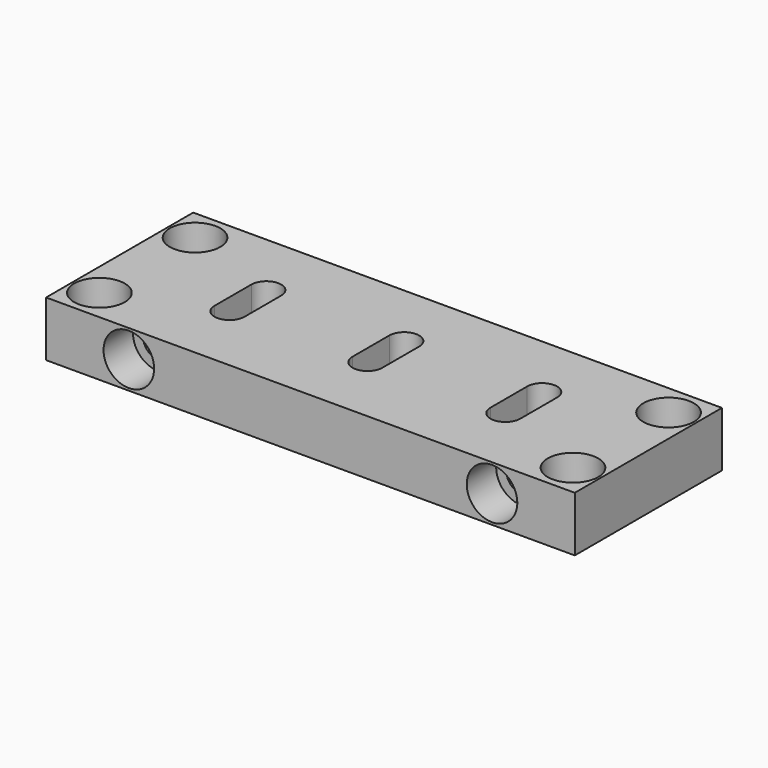
from build123d import *

# Parameters (mm, degrees)
F0_W      = 115
F0_H      = 40
F1_DEPTH  = 12
F3_DEPTH  = 12.1
F4_R      = 3.15
F5_DEPTH  = 12.1
F6_R      = 5.5
F7_DEPTH  = 7
F8_R      = 3.3
F9_DEPTH  = 40.1
F10_R     = 5.5
F11_DEPTH = 8


with BuildPart() as f1:
    # F0 (on Top) → F1 (new body)
    with BuildSketch(Plane.XY):
        with Locations((57.5, -20)):
            Rectangle(F0_W, F0_H)
    extrude(amount=F1_DEPTH)

    # F2 (on Top) → F3 (cut)
    with BuildSketch(Plane.XY):
        with BuildLine():
            Line((30.75, -24.5), (30.75, -14.5))
            ThreePointArc((30.75, -14.5), (27.5, -11.25), (24.25, -14.5))
            Line((24.25, -14.5), (24.25, -24.5))
            ThreePointArc((24.25, -24.5), (27.5, -27.75), (30.75, -24.5))
        make_face()
        with BuildLine():
            ThreePointArc((60.75, -14.5), (57.5, -11.25), (54.25, -14.5))
            Line((54.25, -14.5), (54.25, -24.5))
            ThreePointArc((54.25, -24.5), (57.5, -27.75), (60.75, -24.5))
            Line((60.75, -24.5), (60.75, -14.5))
        make_face()
        with BuildLine():
            ThreePointArc((90.75, -14.5), (87.5, -11.25), (84.25, -14.5))
            Line((84.25, -14.5), (84.25, -24.5))
            ThreePointArc((84.25, -24.5), (87.5, -27.75), (90.75, -24.5))
            Line((90.75, -24.5), (90.75, -14.5))
        make_face()
    extrude(amount=F3_DEPTH, mode=Mode.SUBTRACT)

    # F4 (on Top) → F5 (cut)
    with BuildSketch(Plane.XY):
        with Locations((6, -7)):
            Circle(F4_R)
        with Locations((6, -33)):
            Circle(F4_R)
        with BuildLine():
            ThreePointArc((109, -10.15), (111.227386, -9.227386), (112.15, -7))
            ThreePointArc((112.15, -7), (106.772614, -4.772614), (109, -10.15))
        make_face()
        with BuildLine():
            ThreePointArc((112.15, -33), (111.227386, -30.772614), (109, -29.85))
            ThreePointArc((109, -29.85), (106.772614, -35.227386), (112.15, -33))
        make_face()
    extrude(amount=F5_DEPTH, mode=Mode.SUBTRACT)

    # F6 (on face) → F7 (cut)
    with BuildSketch(Plane.XY.offset(12)):
        with Locations((6, -7)):
            Circle(F6_R)
        with Locations((6, -33)):
            Circle(F6_R)
        with Locations((109, -7)):
            Circle(F6_R)
        with Locations((109, -33)):
            Circle(F6_R)
    extrude(amount=-F7_DEPTH, mode=Mode.SUBTRACT)

    # F8 (on face) → F9 (cut)
    with BuildSketch(Plane.XZ.offset(40)):
        with Locations((97, 6)):
            Circle(F8_R)
        with Locations((18, 6)):
            Circle(F8_R)
    extrude(amount=-F9_DEPTH, mode=Mode.SUBTRACT)

    # F10 (on face) → F11 (cut)
    with BuildSketch(Plane.XZ.offset(40)):
        with Locations((18, 6)):
            Circle(F10_R)
        with Locations((97, 6)):
            Circle(F10_R)
    extrude(amount=-F11_DEPTH, mode=Mode.SUBTRACT)


solid = f1.part
